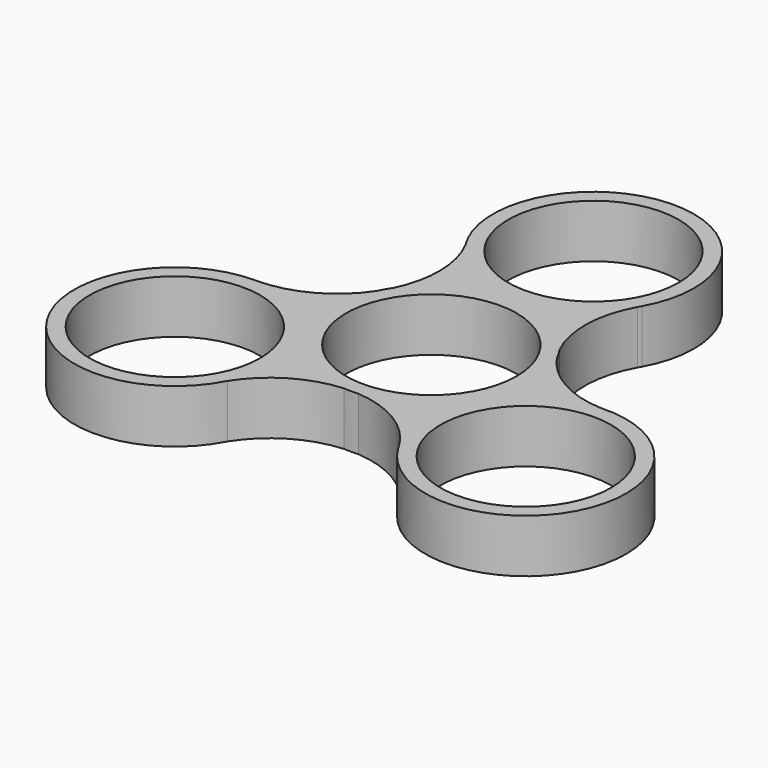
from build123d import *

# Parameters (mm, degrees)
F0_R     = 11.2
F1_DEPTH = 7


with BuildPart() as f1:
    # F0 (on Top) → F1 (new body)
    with BuildSketch(Plane.XY):
        with BuildLine():
            ThreePointArc((-11.87149, 5.771284), (-11.370299, 6.571782), (-10.926858, 7.405658))
            ThreePointArc((-10.926858, 7.405658), (-11.428428, 6.605379), (-11.87149, 5.771284))
        make_face()
        with BuildLine():
            ThreePointArc((-11.102772, 19.469342), (-9.576995, 13.458467), (-10.926858, 7.405658))
            ThreePointArc((-10.926858, 7.405658), (-11.370299, 6.571782), (-11.87149, 5.771284))
            ThreePointArc((-11.87149, 5.771284), (-16.59031, 1.499017), (-22.749729, -0.107555))
            ThreePointArc((-22.749729, -0.107555), (-22.996208, -0.108939), (-23.24267, -0.105781))
            ThreePointArc((-23.24267, -0.105781), (-34.261956, -20.26061), (-11.309559, -19.349954))
            ThreePointArc((-11.309559, -19.349954), (-6.866877, -15.023154), (-0.950059, -13.165766))
            ThreePointArc((-0.950059, -13.165766), (-0.006181, -13.132858), (0.937667, -13.166654))
            ThreePointArc((0.937667, -13.166654), (6.996968, -15.117138), (11.46801, -19.648066))
            ThreePointArc((11.46801, -19.648066), (11.592448, -19.86083), (11.712944, -20.075852))
            ThreePointArc((11.712944, -20.075852), (34.677181, -19.541419), (22.412331, -0.119389))
            ThreePointArc((22.412331, -0.119389), (16.443872, 1.564688), (11.876917, 5.760107))
            ThreePointArc((11.876917, 5.760107), (11.376479, 6.561077), (10.933823, 7.39537))
            ThreePointArc((10.933823, 7.39537), (9.593341, 13.618121), (11.281719, 19.755621))
            ThreePointArc((11.281719, 19.755621), (11.40376, 19.96977), (11.529726, 20.181633))
            ThreePointArc((11.529726, 20.181633), (-0.415225, 39.80203), (-11.102772, 19.469342))
        make_face()
        with Locations((-23.043691, -13.304281)):
            Circle(F0_R, mode=Mode.SUBTRACT)
        with Locations((23.043691, -13.304281)):
            Circle(F0_R, mode=Mode.SUBTRACT)
        Circle(F0_R, mode=Mode.SUBTRACT)
        with Locations((0, 26.608562)):
            Circle(F0_R, mode=Mode.SUBTRACT)
        with BuildLine():
            ThreePointArc((-23.24267, -0.105781), (-22.996208, -0.108939), (-22.749729, -0.107555))
            ThreePointArc((-22.749729, -0.107555), (-22.996191, -0.104367), (-23.24267, -0.105781))
        make_face()
        with BuildLine():
            ThreePointArc((11.281719, 19.755621), (11.407712, 19.967469), (11.529726, 20.181633))
            ThreePointArc((11.529726, 20.181633), (11.40376, 19.96977), (11.281719, 19.755621))
        make_face()
        with BuildLine():
            ThreePointArc((11.876917, 5.760107), (11.43464, 6.594619), (10.933823, 7.39537))
            ThreePointArc((10.933823, 7.39537), (11.376479, 6.561077), (11.876917, 5.760107))
        make_face()
        with BuildLine():
            ThreePointArc((0.937667, -13.166654), (-0.006181, -13.132858), (-0.950059, -13.165766))
            ThreePointArc((-0.950059, -13.165766), (-0.006212, -13.199999), (0.937667, -13.166654))
        make_face()
        with BuildLine():
            ThreePointArc((11.712944, -20.075852), (11.592448, -19.86083), (11.46801, -19.648066))
            ThreePointArc((11.46801, -19.648066), (11.58848, -19.863103), (11.712944, -20.075852))
        make_face()
    extrude(amount=F1_DEPTH)


solid = f1.part
